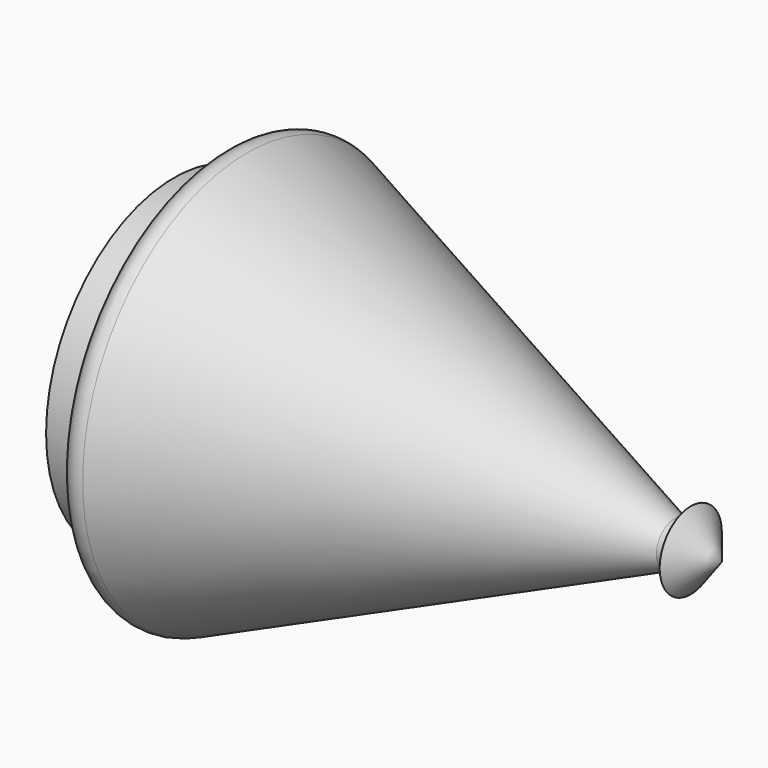
from build123d import *


with BuildPart() as f1:
    # F0 (on Top) → F1 (revolve)
    with BuildSketch(Plane.XY):
        with BuildLine():
            Line((0, 48.2346), (0, 0))
            Line((0, 0), (164.9984, 0))
            Line((164.9984, 0), (155.610142, 11.698744))
            Line((155.610142, 11.698744), (155.610142, 6.698744))
            Line((155.610142, 6.698744), (150.610142, 6.698744))
            Line((150.610142, 6.698744), (21.973607, 61.961624))
            ThreePointArc((21.973607, 61.961624), (17.249367, 61.543025), (15, 57.367619))
            Line((15, 57.367619), (15, 48.2346))
            Line((15, 48.2346), (0, 48.2346))
        make_face()
    revolve(axis=Axis((-106.916326, 0, 0), (-1, 0, 0)))


solid = f1.part
